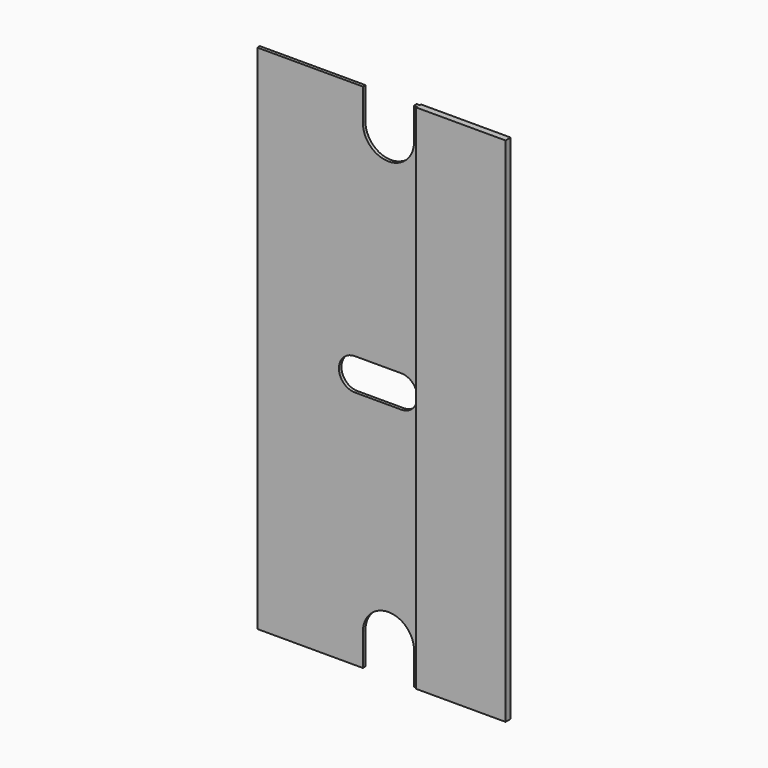
from build123d import *

# Parameters (mm, degrees)
F1_DEPTH      = 40.64
F3_DEPTH      = 0.255
F3_DEPTH_BACK = 0.255


with BuildPart() as f1:
    # F0 (on Top) → F1 (new body)
    with BuildSketch(Plane.XY):
        Polygon((0, 0.127), (-12.7, 0.127), (-12.7, -0.127), (0, -0.127), (0, -0.254), (7.112, -0.254), (7.112, 0.254), (0, 0.254), align=None)
    extrude(amount=F1_DEPTH)

    # F2 (on Front) → F3 (cut, two sides)
    with BuildSketch(Plane.XZ) as f3_sk:
        with BuildLine():
            Line((-4.318, 40.64), (-4.318, 38.1))
            ThreePointArc((-4.318, 38.1), (-2.286, 36.068), (-0.254, 38.1))
            Line((-0.254, 38.1), (-0.254, 40.64))
            Line((-0.254, 40.64), (-4.318, 40.64))
        make_face()
        with BuildLine():
            Line((-4.318, 2.54), (-4.318, 0))
            Line((-4.318, 0), (-0.254, 0))
            Line((-0.254, 0), (-0.254, 2.54))
            ThreePointArc((-0.254, 2.54), (-2.286, 4.572), (-4.318, 2.54))
        make_face()
        with BuildLine():
            Line((-1.27, 21.59), (-4.953, 21.59))
            ThreePointArc((-4.953, 21.59), (-6.223, 20.32), (-4.953, 19.05))
            Line((-4.953, 19.05), (-1.27, 19.05))
            ThreePointArc((-1.27, 19.05), (0, 20.32), (-1.27, 21.59))
        make_face()
    extrude(amount=-F3_DEPTH, mode=Mode.SUBTRACT)
    extrude(f3_sk.sketch, amount=F3_DEPTH_BACK, mode=Mode.SUBTRACT)


solid = f1.part
